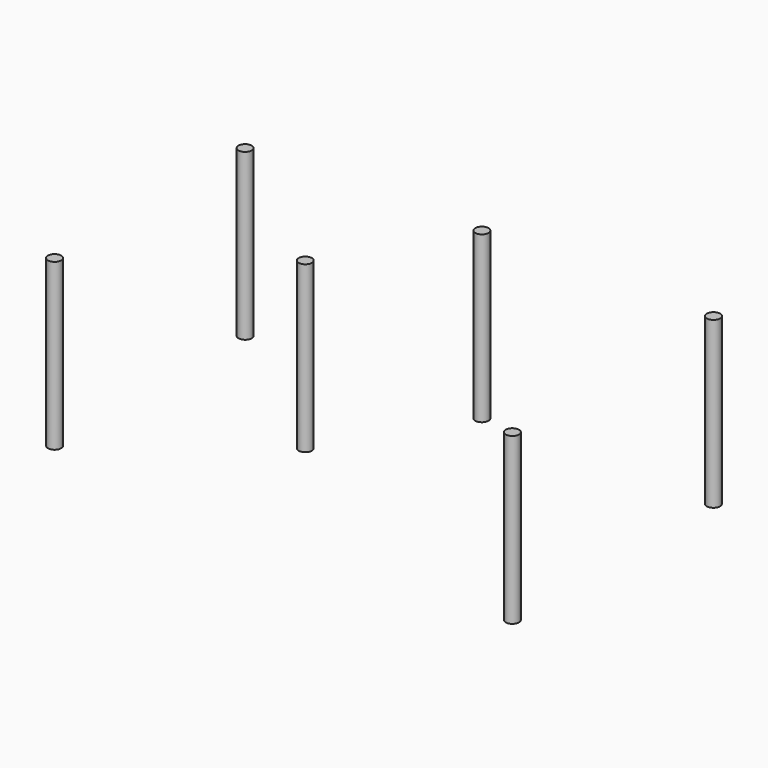
from build123d import *

# Parameters (mm, degrees)
CYLINDER002_R     = 2
CYLINDER002_DEPTH = 50


with BuildPart() as cylinder002:
    # Cylinder002 → Cylinder002 (new body)
    with BuildSketch(Plane(origin=(-70, 36, -5.2), x_dir=(1, 0, 0), z_dir=(0, 0, 1))):
        Circle(CYLINDER002_R)
    extrude(amount=CYLINDER002_DEPTH)


with BuildPart() as clone_of_cylinder002:
    # Clone001 base: copy of Cylinder002
    add(cylinder002.part)


with BuildPart() as clone_of_cylinder002_1:
    # Clone001 placement: moved
    add(clone_of_cylinder002.part.moved(Location((140, 2, 0))))


with BuildPart() as part_mirroring005:
    # Part__Mirroring005: instance of Clone of Cylinder002
    add(clone_of_cylinder002_1.part.mirror(Plane(origin=(0, 0, 0), x_dir=(1, 0, 0), z_dir=(0, 1, 0))))


with BuildPart() as clone_of_clone_of_cylinder002:
    # Clone002 base: copy of Clone of Cylinder002
    add(clone_of_cylinder002_1.part)


with BuildPart() as clone_of_clone_of_cylinder002_1:
    # Clone002 placement: moved
    add(clone_of_clone_of_cylinder002.part.moved(Location((-70, 0, 0))))


with BuildPart() as clone_of_clone_of_clone_of_cylinder002:
    # Clone003 base: copy of Clone of Clone of Cylinder002
    add(clone_of_clone_of_cylinder002_1.part)


with BuildPart() as clone_of_clone_of_clone_of_cylinder002_1:
    # Clone003 placement: moved
    add(clone_of_clone_of_clone_of_cylinder002.part.moved(Location((-23, -38, 0))))


with BuildPart() as fusion003:
    # Part__Mirroring004: instance of Cylinder002
    add(cylinder002.part.mirror(Plane(origin=(0, 0, 0), x_dir=(1, 0, 0), z_dir=(0, 1, 0))))

    # Fusion003: union Cylinder002, Part__Mirroring005, Clone of Cylinder002, Clone of Clone of Cylinder002, Clone of Clone of Clone of Cylinder002
    add(cylinder002.part)
    add(part_mirroring005.part)
    add(clone_of_cylinder002_1.part)
    add(clone_of_clone_of_cylinder002_1.part)
    add(clone_of_clone_of_clone_of_cylinder002_1.part)


solid = fusion003.part
